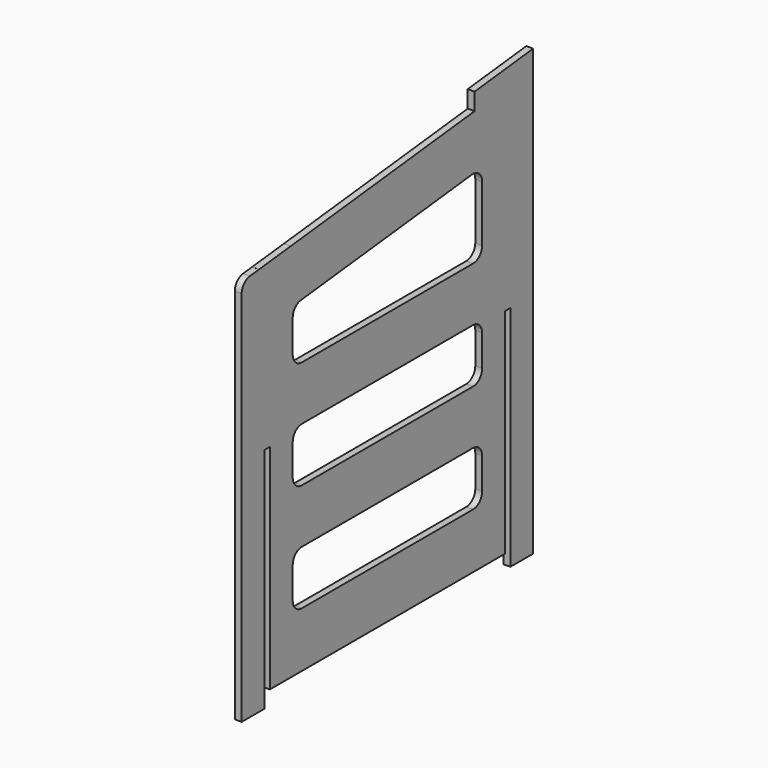
from build123d import *

# Parameters (mm, degrees)
F1_DEPTH = 12
F3_DEPTH = 12.001
F5_DEPTH = 12.001


with BuildPart() as f1:
    # F0 (on Right) → F1 (new body)
    with BuildSketch(Plane.YZ):
        with BuildLine():
            Line((60.7755278349, -634.5296874642), (60.7755278349, -259.5296874642))
            Line((60.7755278349, -259.5296874642), (72.7755278349, -259.5296874642))
            Line((72.7755278349, -259.5296874642), (72.7755278349, -659.5296874642))
            Line((72.7755278349, -659.5296874642), (122.7755278349, -659.5296874642))
            Line((122.7755278349, -659.5296874642), (122.7755278349, 121.0050255262))
            Line((122.7755278349, 121.0050255262), (-5.7553051829, 106.7774001027))
            Line((-5.7553051829, 106.7774001027), (-5.7553051829, 76.5941614222))
            Line((-5.7553051829, 76.5941614222), (-408.8304475712, 31.976056888))
            Line((-408.8304475712, 31.976056888), (-408.8304475712, 62.1592955685))
            Line((-408.8304475712, 62.1592955685), (-478.8304475712, 54.4106973818))
            Line((-478.8304475712, 54.4106973818), (-478.8304475712, 24.2274587014))
            Line((-478.8304475712, 24.2274587014), (-498.9154871822, 22.1010640787))
            ThreePointArc((-498.9154871822, 22.1010640787), (-511.6778233036, 15.5892004313), (-516.8098630895, 2.2122142583))
            Line((-516.8098630895, 2.2122142583), (-516.8098630895, -659.5296874642))
            Line((-516.8098630895, -659.5296874642), (-466.8098630895, -659.5296874642))
            Line((-466.8098630895, -659.5296874642), (-466.8098630895, -259.5296874642))
            Line((-466.8098630895, -259.5296874642), (-454.8098630895, -259.5296874642))
            Line((-454.8098630895, -259.5296874642), (-454.8098630895, -634.5296874642))
            Line((-454.8098630895, -634.5296874642), (60.7755278349, -634.5296874642))
        make_face()
    extrude(amount=F1_DEPTH)

    # F2 (on face) → F3 (cut, through all)
    with BuildSketch(Plane.YZ.offset(12)):
        with BuildLine():
            ThreePointArc((-387.0103080646, -60.6085789203), (-399.7096768383, -67.1456641112), (-404.8098630895, -80.4871614129))
            Line((-404.8098630895, -80.4871614129), (-404.8098630895, -137.5788874888))
            ThreePointArc((-404.8098630895, -137.5788874888), (-398.9519987132, -151.7210231125), (-384.8098630895, -157.5788874888))
            Line((-384.8098630895, -157.5788874888), (-9.2244721651, -157.5788874888))
            ThreePointArc((-9.2244721651, -157.5788874888), (4.9176634586, -151.7210231125), (10.7755278349, -137.5788874888))
            Line((10.7755278349, -137.5788874888), (10.7755278349, -38.9120145693))
            ThreePointArc((10.7755278349, -38.9120145693), (4.1170251365, -24.0122008204), (-11.4249171402, -19.0334320768))
            Line((-11.4249171402, -19.0334320768), (-387.0103080646, -60.6085789203))
        make_face()
        with BuildLine():
            ThreePointArc((-384.8098630895, -252.5788874888), (-398.9519987132, -258.436751865), (-404.8098630895, -272.5788874888))
            Line((-404.8098630895, -272.5788874888), (-404.8098630895, -327.5788874888))
            ThreePointArc((-404.8098630895, -327.5788874888), (-398.9519987132, -341.7210231125), (-384.8098630895, -347.5788874888))
            Line((-384.8098630895, -347.5788874888), (-9.2244721651, -347.5788874888))
            ThreePointArc((-9.2244721651, -347.5788874888), (4.9176634586, -341.7210231125), (10.7755278349, -327.5788874888))
            Line((10.7755278349, -327.5788874888), (10.7755278349, -272.5788874888))
            ThreePointArc((10.7755278349, -272.5788874888), (4.9176634586, -258.436751865), (-9.2244721651, -252.5788874888))
            Line((-9.2244721651, -252.5788874888), (-384.8098630895, -252.5788874888))
        make_face()
        with BuildLine():
            ThreePointArc((-384.8098630895, -442.5788874888), (-398.9519987132, -448.436751865), (-404.8098630895, -462.5788874888))
            Line((-404.8098630895, -462.5788874888), (-404.8098630895, -517.5788874888))
            ThreePointArc((-404.8098630895, -517.5788874888), (-398.9519987132, -531.7210231125), (-384.8098630895, -537.5788874888))
            Line((-384.8098630895, -537.5788874888), (-9.2244721651, -537.5788874888))
            ThreePointArc((-9.2244721651, -537.5788874888), (4.9176634586, -531.7210231125), (10.7755278349, -517.5788874888))
            Line((10.7755278349, -517.5788874888), (10.7755278349, -462.5788874888))
            ThreePointArc((10.7755278349, -462.5788874888), (4.9176634586, -448.436751865), (-9.2244721651, -442.5788874888))
            Line((-9.2244721651, -442.5788874888), (-384.8098630895, -442.5788874888))
        make_face()
    extrude(amount=-F3_DEPTH, mode=Mode.SUBTRACT)

    # F4 (on face) → F5 (cut, through all)
    with BuildSketch(Plane.YZ.offset(12)):
        Polygon((-478.8304475712, 54.4106973818), (-478.8304475712, 24.311662506), (-408.8304475712, 32.0159983154), (-408.8304475712, 62.1592955685), align=None)
    extrude(amount=-F5_DEPTH, mode=Mode.SUBTRACT)


with BuildPart() as f6_1:
    # F6: copy of F1
    add(f1.part)


solid = Compound([f1.part, f6_1.part])
